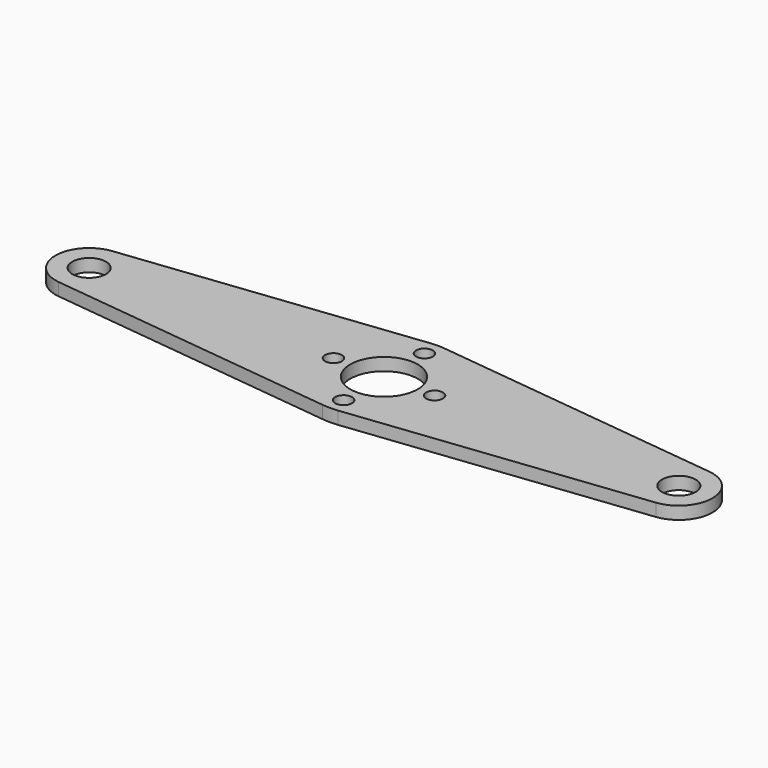
from build123d import *

# Parameters (mm, degrees)
F0_R     = 1
F0_R_2   = 2
F0_R_3   = 4
F1_DEPTH = 1.5


with BuildPart() as f1:
    # F0 (on Top) → F1 (new body)
    with BuildSketch(Plane.XY):
        with BuildLine():
            Line((0.914286, -7.947583), (35.457143, -3.973792))
            ThreePointArc((35.457143, -3.973792), (39, 0), (35.457143, 3.973792))
            Line((35.457143, 3.973792), (0.914286, 7.947583))
            ThreePointArc((0.914286, 7.947583), (0, 8), (-0.914286, 7.947583))
            Line((-0.914286, 7.947583), (-35.457143, 3.973792))
            ThreePointArc((-35.457143, 3.973792), (-39, 0), (-35.457143, -3.973792))
            Line((-35.457143, -3.973792), (-0.914286, -7.947583))
            ThreePointArc((-0.914286, -7.947583), (0, -8), (0.914286, -7.947583))
        make_face()
        with Locations((0, -6)):
            Circle(F0_R, mode=Mode.SUBTRACT)
        with Locations((-35, 0)):
            Circle(F0_R_2, mode=Mode.SUBTRACT)
        with Locations((-6, 0)):
            Circle(F0_R, mode=Mode.SUBTRACT)
        Circle(F0_R_3, mode=Mode.SUBTRACT)
        with Locations((6, 0)):
            Circle(F0_R, mode=Mode.SUBTRACT)
        with Locations((35, 0)):
            Circle(F0_R_2, mode=Mode.SUBTRACT)
        with Locations((0, 6)):
            Circle(F0_R, mode=Mode.SUBTRACT)
    extrude(amount=F1_DEPTH)


solid = f1.part
